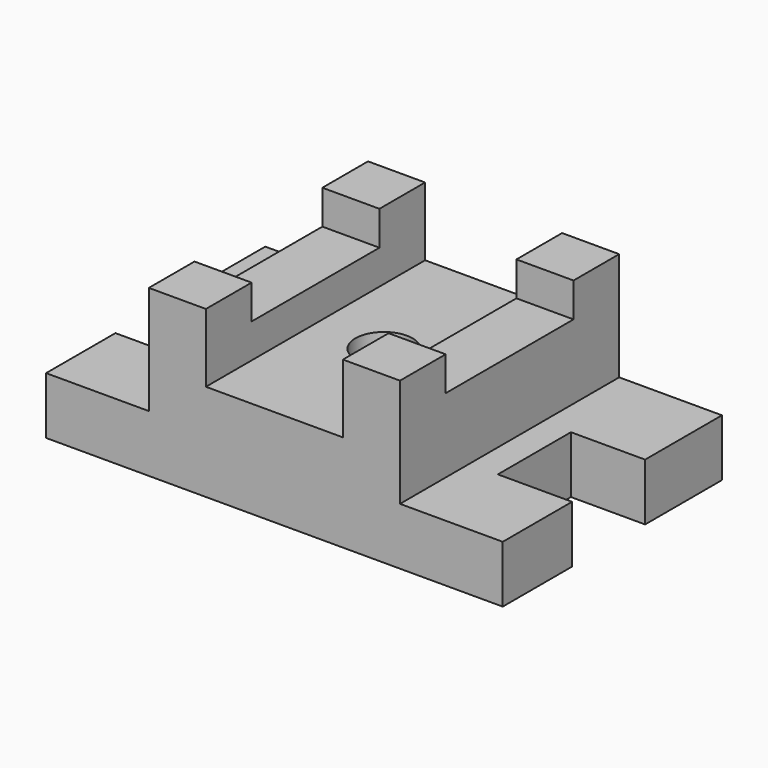
from build123d import *

# Parameters (mm, degrees)
F0_R     = 15.875
F0_W     = 31.75
F0_H     = 88.9
F0_H_2   = 31.75
F1_DEPTH = 31.75
F2_DEPTH = 53.975
F3_DEPTH = 73.025
F4_DEPTH = 92.075


with BuildPart() as f1:
    # F0 (on Top) → F1 (new body)
    with BuildSketch(Plane.XY):
        Polygon((89.678057, 104.196285), (13.478057, 104.196285), (13.478057, 72.446285), (13.478057, -16.453715), (13.478057, -48.203715), (89.678057, -48.203715), (89.678057, -16.453715), (89.678057, 72.446285), align=None)
        with Locations((51.578057, 27.996285)):
            Circle(F0_R, mode=Mode.SUBTRACT)
        with Locations((105.553057, 27.996285)):
            Rectangle(F0_W, F0_H)
        Polygon((178.578057, 104.196285), (121.428057, 104.196285), (121.428057, 72.446285), (121.428057, -16.453715), (121.428057, -48.203715), (178.578057, -48.203715), (178.578057, 0), (137.303057, 0), (137.303057, 50.8), (178.578057, 50.8), align=None)
        Polygon((-18.271943, 104.196285), (-75.421943, 104.196285), (-75.421943, 50.8), (-34.146943, 50.8), (-34.146943, 0), (-75.421943, 0), (-75.421943, -48.203715), (-18.271943, -48.203715), (-18.271943, -16.453715), (-18.271943, 72.446285), align=None)
        with Locations((-2.396943, 88.321285)):
            Rectangle(F0_W, F0_H_2)
        with Locations((105.553057, 88.321285)):
            Rectangle(F0_W, F0_H_2)
        with Locations((105.553057, -32.328715)):
            Rectangle(F0_W, F0_H_2)
        with Locations((-2.396943, -32.328715)):
            Rectangle(F0_W, F0_H_2)
        with Locations((-2.396943, 27.996285)):
            Rectangle(F0_W, F0_H)
    extrude(amount=F1_DEPTH)

    # F0 (on Top) → F2 (join)
    with BuildSketch(Plane.XY):
        with Locations((-2.396943, 88.321285)):
            Rectangle(F0_W, F0_H_2)
        with Locations((-2.396943, 27.996285)):
            Rectangle(F0_W, F0_H)
        with Locations((-2.396943, -32.328715)):
            Rectangle(F0_W, F0_H_2)
        Polygon((89.678057, 104.196285), (13.478057, 104.196285), (13.478057, 72.446285), (13.478057, -16.453715), (13.478057, -48.203715), (89.678057, -48.203715), (89.678057, -16.453715), (89.678057, 72.446285), align=None)
        with Locations((51.578057, 27.996285)):
            Circle(F0_R, mode=Mode.SUBTRACT)
        with Locations((105.553057, -32.328715)):
            Rectangle(F0_W, F0_H_2)
        with Locations((105.553057, 27.996285)):
            Rectangle(F0_W, F0_H)
        with Locations((105.553057, 88.321285)):
            Rectangle(F0_W, F0_H_2)
    extrude(amount=F2_DEPTH)

    # F0 (on Top) → F3 (join)
    with BuildSketch(Plane.XY):
        with Locations((-2.396943, 88.321285)):
            Rectangle(F0_W, F0_H_2)
        with Locations((-2.396943, 27.996285)):
            Rectangle(F0_W, F0_H)
        with Locations((-2.396943, -32.328715)):
            Rectangle(F0_W, F0_H_2)
        with Locations((105.553057, -32.328715)):
            Rectangle(F0_W, F0_H_2)
        with Locations((105.553057, 27.996285)):
            Rectangle(F0_W, F0_H)
        with Locations((105.553057, 88.321285)):
            Rectangle(F0_W, F0_H_2)
    extrude(amount=F3_DEPTH)

    # F0 (on Top) → F4 (join)
    with BuildSketch(Plane.XY):
        with Locations((105.553057, -32.328715)):
            Rectangle(F0_W, F0_H_2)
        with Locations((-2.396943, -32.328715)):
            Rectangle(F0_W, F0_H_2)
        with Locations((-2.396943, 88.321285)):
            Rectangle(F0_W, F0_H_2)
        with Locations((105.553057, 88.321285)):
            Rectangle(F0_W, F0_H_2)
    extrude(amount=F4_DEPTH)


solid = f1.part
